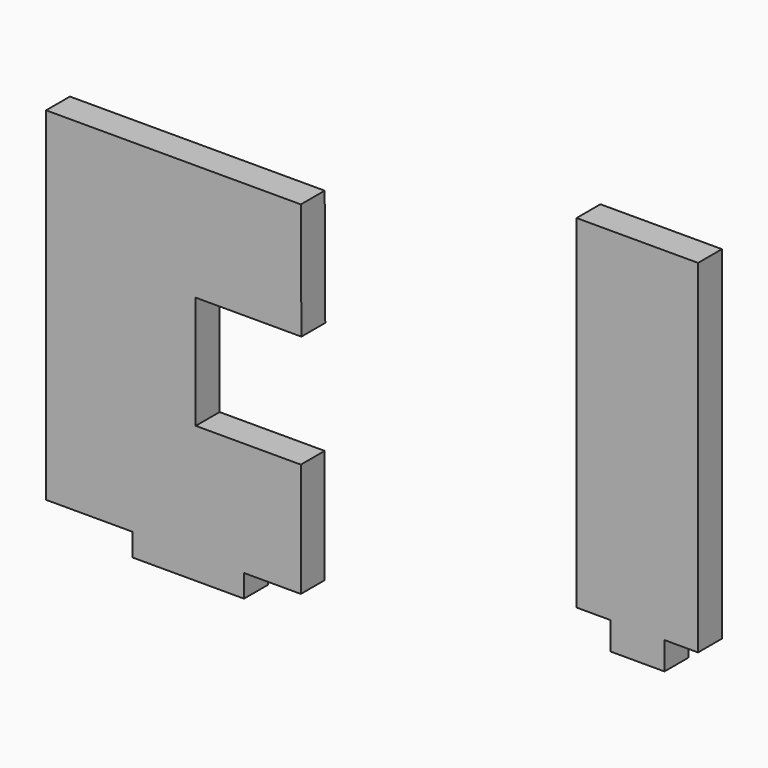
from build123d import *

# Parameters (mm, degrees)
F0_W     = 72.136
F0_H     = 14.665074
F0_W_2   = 34.877121
F0_H_2   = 17.931667
F1_DEPTH = 19.3294


with BuildPart() as f1:
    # F0 (on Front) → F1 (new body)
    with BuildSketch(Plane.XZ):
        Polygon((108.950357, 120.980367), (-56.149643, 120.980367), (-56.149643, -101.269633), (0, -101.269633), (72.136, -101.269633), (108.950357, -101.269633), (108.950357, -27.491283), (40.84789, -27.491283), (40.84789, 45.645904), (109.316744, 45.645904), align=None)
        with Locations((36.068, -108.60217)):
            Rectangle(F0_W, F0_H)
        Polygon((287.645191, 171.33106), (287.645191, -50.91894), (309.743941, -50.91894), (344.621062, -50.91894), (366.385191, -50.91894), (366.385191, 171.33106), align=None)
        with Locations((327.182502, -59.884773)):
            Rectangle(F0_W_2, F0_H_2)
    extrude(amount=F1_DEPTH)


solid = f1.part
